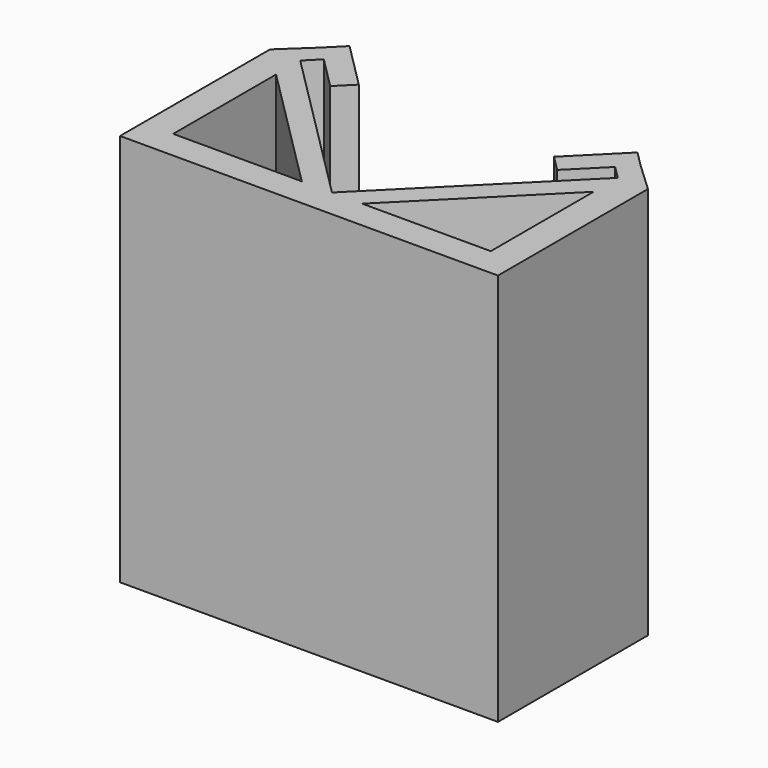
from build123d import *

# Parameters (mm, degrees)
F2_DEPTH = 35


with BuildPart() as f2:
    # F1 (on Top) + F0 (on Top) → F2 (new body)
    with BuildSketch(Plane.XY):
        Polygon((-16.83088, -2.557084), (0, -2.557084), (0, 0), (-14.142136, 14.142136), (-12.975409, 15.308862), (-10.107344, 12.440796), (-8.69313, 13.85501), (-12.823902, 17.985781), (-14.238115, 16.571568), (-16.83088, 14.142136), align=None)
        Polygon((-14.142136, 11.453391), (-2.688745, 0), (-14.142136, 0), align=None, mode=Mode.SUBTRACT)
    with BuildSketch(Plane.XY):
        Polygon((14.142136, 14.142136), (0, 0), (0, -2.557084), (16.83088, -2.557084), (16.83088, 14.142136), (14.238115, 16.571568), (12.823902, 17.985781), (8.69313, 13.85501), (10.107344, 12.440796), (12.975409, 15.308862), align=None)
        Polygon((2.688745, 0), (14.142136, 11.453391), (14.142136, 0), align=None, mode=Mode.SUBTRACT)
    extrude(amount=F2_DEPTH)


solid = f2.part
